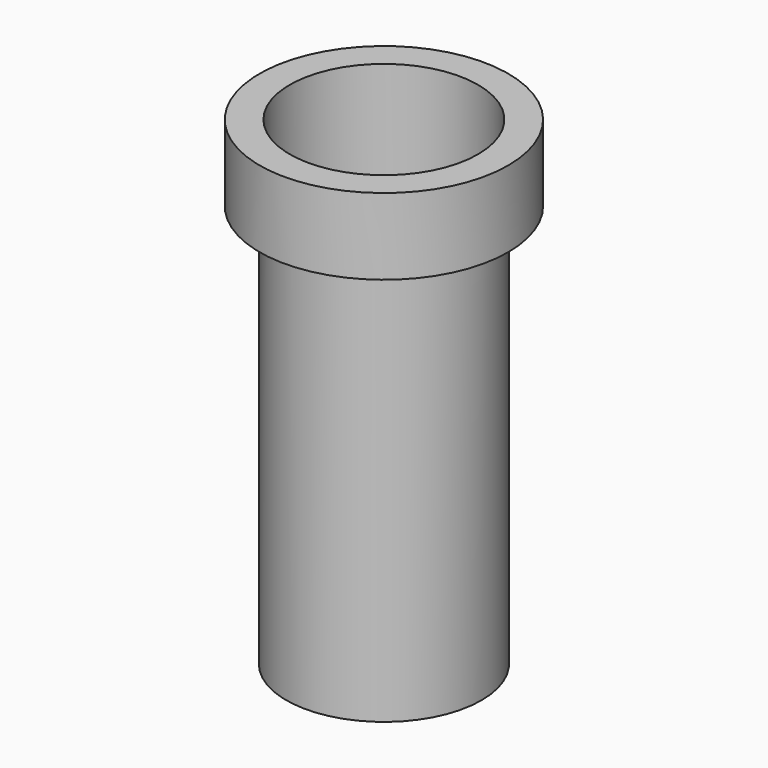
from build123d import *

# Parameters (mm, degrees)
F0_R     = 3.5
F1_DEPTH = 2.15
F2_R     = 2.75
F3_DEPTH = 11.35
F4_R     = 2.65
F5_DEPTH = 11.5
F6_R     = 0.75
F7_DEPTH = 13.501


with BuildPart() as f1:
    # F0 (on Top) → F1 (new body)
    with BuildSketch(Plane.XY):
        Circle(F0_R)
        Circle(F0_R)
    extrude(amount=F1_DEPTH)

    # F2 (on Top) → F3 (join)
    with BuildSketch(Plane.XY):
        Circle(F2_R)
    extrude(amount=-F3_DEPTH)

    # F4 (on face) → F5 (cut)
    with BuildSketch(Plane.XY.offset(2.15)):
        Circle(F4_R)
    extrude(amount=-F5_DEPTH, mode=Mode.SUBTRACT)

    # F6 (on face) → F7 (cut, through all)
    with BuildSketch(Plane(origin=(0, 0, -11.35), x_dir=(1, 0, 0), z_dir=(0, 0, -1))):
        Circle(F6_R)
    extrude(amount=-F7_DEPTH, mode=Mode.SUBTRACT)


solid = f1.part
